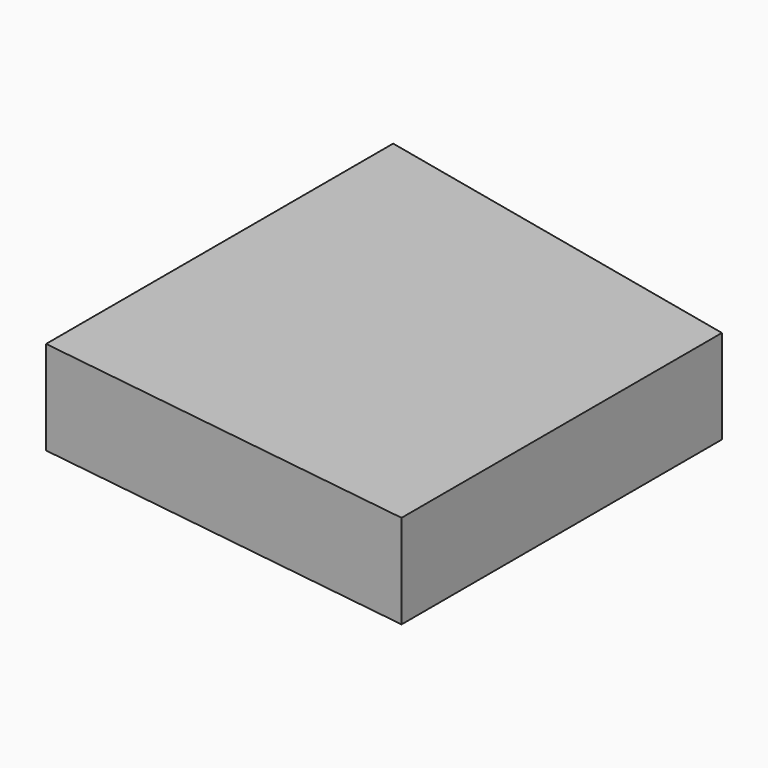
from build123d import *

# Parameters (mm, degrees)
PAD_DEPTH    = 11.90625
SKETCH001_W  = 711.2
SKETCH001_H  = 1371.6
POCKET_DEPTH = 11.90625


with BuildPart() as part:
    # Sketch → Pad (new body)
    with BuildSketch(Plane.XY):
        Polygon((0, 114.3), (0, 0), (762, -107.092116), (762, -56.292116), align=None)
    extrude(amount=PAD_DEPTH)

    # Sketch001 → Pocket (cut)
    with BuildSketch(Plane.XY.offset(11.90625)):
        with Locations((355.6, 0)):
            Rectangle(SKETCH001_W, SKETCH001_H)
    extrude(amount=-POCKET_DEPTH, mode=Mode.SUBTRACT)


solid = part.part
